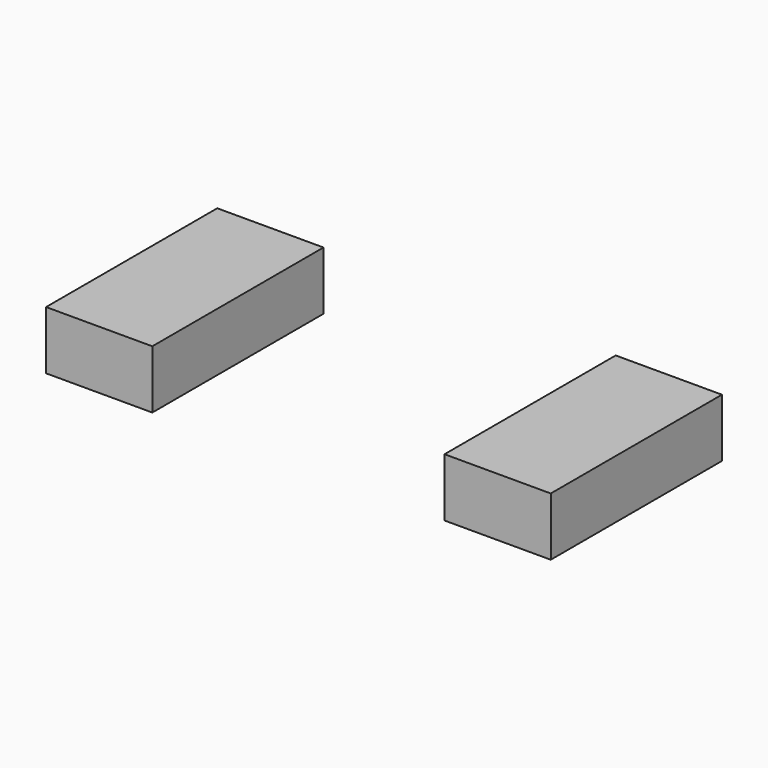
from build123d import *

# Parameters (mm, degrees)
F0_W     = 112.7125
F0_H     = 61.9125
F1_DEPTH = 227.0125


with BuildPart() as f1:
    # F0 (on Front) → F1 (new body)
    with BuildSketch(Plane.XZ):
        with Locations((211.377581, 30.95625)):
            Rectangle(F0_W, F0_H)
        with Locations((-211.377581, 30.95625)):
            Rectangle(F0_W, F0_H)
    extrude(amount=-F1_DEPTH)


solid = f1.part
